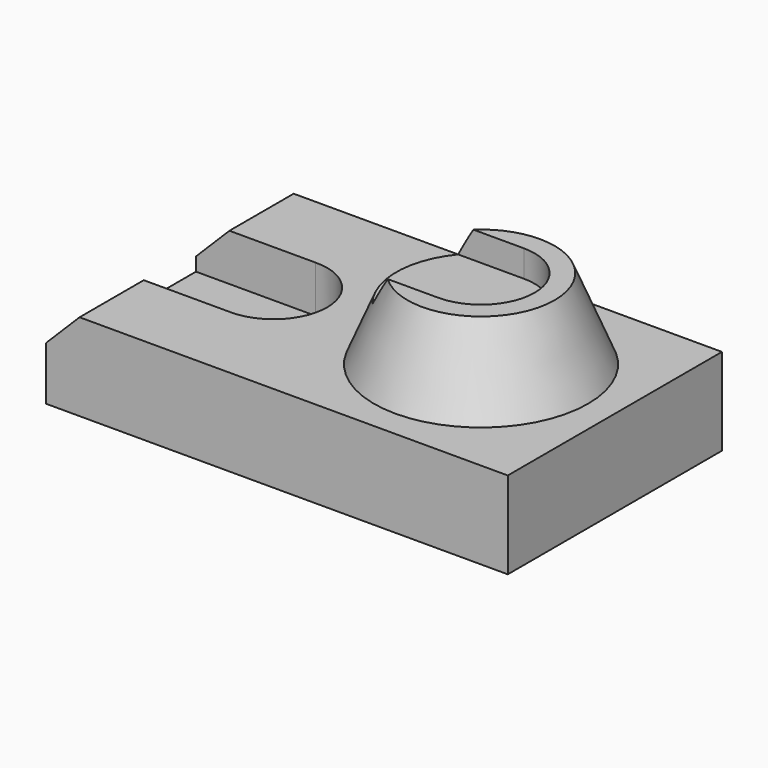
from build123d import *

# Parameters (mm, degrees)
F0_W     = 109.5375
F0_H     = 63.5
F1_DEPTH = 20.6502
F5_DEPTH = 6.35
F7_DEPTH = 11.1252
F8_SIZE  = 7.9375


with BuildPart() as f1:
    # F0 (on Top) → F1 (new body)
    with BuildSketch(Plane.XY):
        with Locations((-23.01875, 0)):
            Rectangle(F0_W, F0_H)
    extrude(amount=F1_DEPTH)

    # F2 (on Right) → F3 (revolve)
    with BuildSketch(Plane.YZ):
        Polygon((0, 20.6502), (25.4, 20.6502), (17.4625, 39.7002), (0, 39.7002), align=None)
    revolve(axis=Axis((0, 0, 30.1752), (0, 0, -1)))

    # F4 (on face) → F5 (cut)
    with BuildSketch(Plane.XY.offset(39.7002)):
        with BuildLine():
            Line((-30.736892, -12.7), (-11.985362, -12.7))
            ThreePointArc((-11.985362, -12.7), (-17.4625, 0), (-11.985362, 12.7))
            Line((-11.985362, 12.7), (-30.736892, 12.7))
            Line((-30.736892, 12.7), (-30.736892, -12.7))
        make_face()
        with BuildLine():
            Line((-11.985362, -12.7), (0, -12.7))
            ThreePointArc((0, -12.7), (12.7, 0), (0, 12.7))
            Line((0, 12.7), (-11.985362, 12.7))
            ThreePointArc((-11.985362, 12.7), (-17.4625, 0), (-11.985362, -12.7))
        make_face()
    extrude(amount=-F5_DEPTH, mode=Mode.SUBTRACT)

    # F6 (on face) → F7 (cut)
    with BuildSketch(Plane.XY.offset(20.6502)):
        with BuildLine():
            Line((-77.7875, -12.697648), (-49.456894, -12.697648))
            ThreePointArc((-49.456894, -12.697648), (-36.512501, -0.004972), (-49.446951, 12.697836))
            Line((-49.446951, 12.697836), (-77.7875, 12.697836))
            Line((-77.7875, 12.697836), (-77.7875, -12.697648))
        make_face()
    extrude(amount=-F7_DEPTH, mode=Mode.SUBTRACT)

    # F8
    f8_edges = [f1.edges().sort_by_distance(p)[0] for p in [
        (-77.7875, -22.223824, 20.6502),
        (-77.7875, 22.223918, 20.6502),
    ]]
    chamfer(f8_edges, length=F8_SIZE)


solid = f1.part
